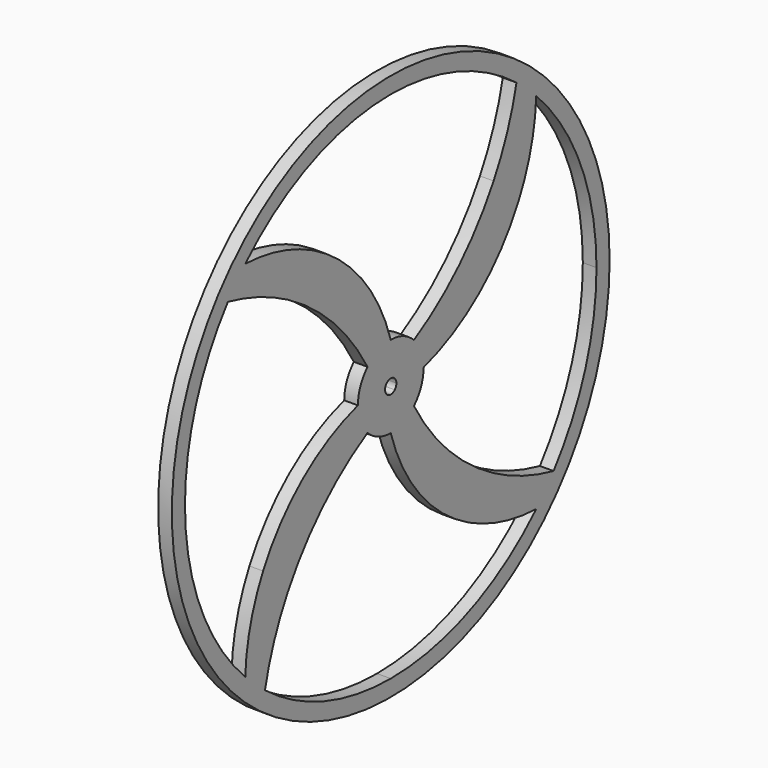
from build123d import *

# Parameters (mm, degrees)
F0_R     = 63.5
F1_DEPTH = 3.175


with BuildPart() as f1:
    # F0 (on Right) → F1 (new body)
    with BuildSketch(Plane.YZ):
        Circle(F0_R)
        with BuildLine():
            ThreePointArc((42.207203769, 42.207203769), (55.1463692956, 22.8423740779), (59.69, 0))
            ThreePointArc((59.69, 0), (56.4919386946, -19.2758128889), (47.240445216, -36.486112917))
            ThreePointArc((47.240445216, -36.486112917), (44.8152116738, -39.4270580012), (42.207203769, -42.207203769))
            ThreePointArc((42.207203769, -42.207203769), (22.8423740779, -55.1463692956), (0, -59.69))
            ThreePointArc((0, -59.69), (-19.2758128889, -56.4919386946), (-36.486112917, -47.240445216))
            ThreePointArc((-36.486112917, -47.240445216), (-39.4270580012, -44.8152116738), (-42.207203769, -42.207203769))
            ThreePointArc((-42.207203769, -42.207203769), (-55.1463692956, -22.8423740779), (-59.69, 0))
            ThreePointArc((-59.69, 0), (-56.4919386946, 19.2758128889), (-47.240445216, 36.486112917))
            ThreePointArc((-47.240445216, 36.486112917), (-44.8152116738, 39.4270580012), (-42.207203769, 42.207203769))
            ThreePointArc((-42.207203769, 42.207203769), (-22.8423740779, 55.1463692956), (0, 59.69))
            ThreePointArc((0, 59.69), (19.2758128889, 56.4919386946), (36.486112917, 47.240445216))
            ThreePointArc((36.486112917, 47.240445216), (39.4270580012, 44.8152116738), (42.207203769, 42.207203769))
        make_face(mode=Mode.SUBTRACT)
        with BuildLine():
            ThreePointArc((29.845, -29.845), (16.7276475457, -19.8525445451), (6.7351920908, -6.7351920908))
            ThreePointArc((6.7351920908, -6.7351920908), (3.6450596933, -8.7999525472), (0, -9.525))
            ThreePointArc((0, -9.525), (8.5432084009, -25.5734757664), (22.6607951031, -37.0292048969))
            Line((22.6607951031, -37.0292048969), (29.845, -29.845))
        make_face()
        with BuildLine():
            ThreePointArc((-6.7351920908, 6.7351920908), (-3.6450596933, 8.7999525472), (0, 9.525))
            ThreePointArc((0, 9.525), (-8.5432084009, 25.5734757664), (-22.6607951031, 37.0292048969))
            Line((-22.6607951031, 37.0292048969), (-29.845, 29.845))
            ThreePointArc((-29.845, 29.845), (-16.7276475457, 19.8525445451), (-6.7351920908, 6.7351920908))
        make_face()
        with BuildLine():
            ThreePointArc((6.7351920908, 6.7351920908), (8.7999525472, 3.6450596933), (9.525, 0))
            ThreePointArc((9.525, 0), (25.5734757664, 8.5432084009), (37.0292048969, 22.6607951031))
            Line((37.0292048969, 22.6607951031), (29.845, 29.845))
            ThreePointArc((29.845, 29.845), (19.8525445451, 16.7276475457), (6.7351920908, 6.7351920908))
        make_face()
        with BuildLine():
            ThreePointArc((-29.845, -29.845), (-19.8525445451, -16.7276475457), (-6.7351920908, -6.7351920908))
            ThreePointArc((-6.7351920908, -6.7351920908), (-8.7999525472, -3.6450596933), (-9.525, 0))
            ThreePointArc((-9.525, 0), (-25.5734757664, -8.5432084009), (-37.0292048969, -22.6607951031))
            Line((-37.0292048969, -22.6607951031), (-29.845, -29.845))
        make_face()
        with BuildLine():
            Line((-42.207203769, -42.207203769), (-29.845, -29.845))
            Line((-29.845, -29.845), (-37.0292048969, -22.6607951031))
            ThreePointArc((-37.0292048969, -22.6607951031), (-40.7112653305, -32.1444388979), (-42.207203769, -42.207203769))
        make_face()
        with BuildLine():
            Line((42.207203769, -42.207203769), (29.845, -29.845))
            Line((29.845, -29.845), (22.6607951031, -37.0292048969))
            ThreePointArc((22.6607951031, -37.0292048969), (32.1444388979, -40.7112653305), (42.207203769, -42.207203769))
        make_face()
        with BuildLine():
            Line((29.845, 29.845), (37.0292048969, 22.6607951031))
            ThreePointArc((37.0292048969, 22.6607951031), (40.7112653305, 32.1444388979), (42.207203769, 42.207203769))
            Line((42.207203769, 42.207203769), (29.845, 29.845))
        make_face()
        with BuildLine():
            Line((-29.845, 29.845), (-22.6607951031, 37.0292048969))
            ThreePointArc((-22.6607951031, 37.0292048969), (-32.1444388979, 40.7112653305), (-42.207203769, 42.207203769))
            Line((-42.207203769, 42.207203769), (-29.845, 29.845))
        make_face()
        with BuildLine():
            ThreePointArc((-36.486112917, -47.240445216), (-33.8273957569, -38.2900501722), (-29.845, -29.845))
            Line((-29.845, -29.845), (-42.207203769, -42.207203769))
            Line((-42.207203769, -42.207203769), (-36.486112917, -47.240445216))
        make_face()
        with BuildLine():
            ThreePointArc((47.240445216, -36.486112917), (38.2900501722, -33.8273957569), (29.845, -29.845))
            Line((29.845, -29.845), (42.207203769, -42.207203769))
            Line((42.207203769, -42.207203769), (47.240445216, -36.486112917))
        make_face()
        with BuildLine():
            ThreePointArc((36.486112917, 47.240445216), (33.8273957569, 38.2900501722), (29.845, 29.845))
            Line((29.845, 29.845), (42.207203769, 42.207203769))
            Line((42.207203769, 42.207203769), (36.486112917, 47.240445216))
        make_face()
        with BuildLine():
            ThreePointArc((-47.240445216, 36.486112917), (-38.2900501722, 33.8273957569), (-29.845, 29.845))
            Line((-29.845, 29.845), (-42.207203769, 42.207203769))
            Line((-42.207203769, 42.207203769), (-47.240445216, 36.486112917))
        make_face()
        with BuildLine():
            Line((9.525, 0), (1.651, 0))
            ThreePointArc((1.651, 0), (1.5253251082, -0.6318103468), (1.1674332957, -1.1674332957))
            Line((1.1674332957, -1.1674332957), (6.7351920908, -6.7351920908))
            ThreePointArc((6.7351920908, -6.7351920908), (8.7999525472, -3.6450596933), (9.525, 0))
        make_face()
        with BuildLine():
            ThreePointArc((-1.1674332957, 1.1674332957), (-0.6318103468, 1.5253251082), (0, 1.651))
            Line((0, 1.651), (0, 9.525))
            ThreePointArc((0, 9.525), (-3.6450596933, 8.7999525472), (-6.7351920908, 6.7351920908))
            Line((-6.7351920908, 6.7351920908), (-1.1674332957, 1.1674332957))
        make_face()
        with BuildLine():
            ThreePointArc((-1.651, 0), (-1.5253251082, 0.6318103468), (-1.1674332957, 1.1674332957))
            Line((-1.1674332957, 1.1674332957), (-6.7351920908, 6.7351920908))
            ThreePointArc((-6.7351920908, 6.7351920908), (-8.7999525472, 3.6450596933), (-9.525, 0))
            Line((-9.525, 0), (-1.651, 0))
        make_face()
        with BuildLine():
            Line((-6.7351920908, -6.7351920908), (-1.1674332957, -1.1674332957))
            ThreePointArc((-1.1674332957, -1.1674332957), (-1.5253251082, -0.6318103468), (-1.651, 0))
            Line((-1.651, 0), (-9.525, 0))
            ThreePointArc((-9.525, 0), (-8.7999525472, -3.6450596933), (-6.7351920908, -6.7351920908))
        make_face()
        with BuildLine():
            Line((0, -9.525), (0, -1.651))
            ThreePointArc((0, -1.651), (-0.6318103468, -1.5253251082), (-1.1674332957, -1.1674332957))
            Line((-1.1674332957, -1.1674332957), (-6.7351920908, -6.7351920908))
            ThreePointArc((-6.7351920908, -6.7351920908), (-3.6450596933, -8.7999525472), (0, -9.525))
        make_face()
        with BuildLine():
            Line((6.7351920908, -6.7351920908), (1.1674332957, -1.1674332957))
            ThreePointArc((1.1674332957, -1.1674332957), (0.6318103468, -1.5253251082), (0, -1.651))
            Line((0, -1.651), (0, -9.525))
            ThreePointArc((0, -9.525), (3.6450596933, -8.7999525472), (6.7351920908, -6.7351920908))
        make_face()
        with BuildLine():
            ThreePointArc((1.1674332957, 1.1674332957), (1.5253251082, 0.6318103468), (1.651, 0))
            Line((1.651, 0), (9.525, 0))
            Line((9.525, 0), (4.7625, 4.7625))
            Line((4.7625, 4.7625), (1.1674332957, 1.1674332957))
        make_face()
        with BuildLine():
            ThreePointArc((0, 1.651), (0.6318103468, 1.5253251082), (1.1674332957, 1.1674332957))
            Line((1.1674332957, 1.1674332957), (4.7625, 4.7625))
            Line((4.7625, 4.7625), (0, 9.525))
            Line((0, 9.525), (0, 1.651))
        make_face()
        with BuildLine():
            Line((4.7625, 4.7625), (9.525, 0))
            ThreePointArc((9.525, 0), (8.7999525472, 3.6450596933), (6.7351920908, 6.7351920908))
            Line((6.7351920908, 6.7351920908), (4.7625, 4.7625))
        make_face()
        with BuildLine():
            Line((0, 9.525), (4.7625, 4.7625))
            Line((4.7625, 4.7625), (6.7351920908, 6.7351920908))
            ThreePointArc((6.7351920908, 6.7351920908), (3.6450596933, 8.7999525472), (0, 9.525))
        make_face()
        with BuildLine():
            Line((-47.240445216, 36.486112917), (-42.207203769, 42.207203769))
            ThreePointArc((-42.207203769, 42.207203769), (-44.8152116738, 39.4270580012), (-47.240445216, 36.486112917))
        make_face()
        with BuildLine():
            Line((-36.486112917, -47.240445216), (-42.207203769, -42.207203769))
            ThreePointArc((-42.207203769, -42.207203769), (-39.4270580012, -44.8152116738), (-36.486112917, -47.240445216))
        make_face()
        with BuildLine():
            Line((47.240445216, -36.486112917), (42.207203769, -42.207203769))
            ThreePointArc((42.207203769, -42.207203769), (44.8152116738, -39.4270580012), (47.240445216, -36.486112917))
        make_face()
        with BuildLine():
            Line((36.486112917, 47.240445216), (42.207203769, 42.207203769))
            ThreePointArc((42.207203769, 42.207203769), (39.4270580012, 44.8152116738), (36.486112917, 47.240445216))
        make_face()
    extrude(amount=F1_DEPTH)


solid = f1.part
